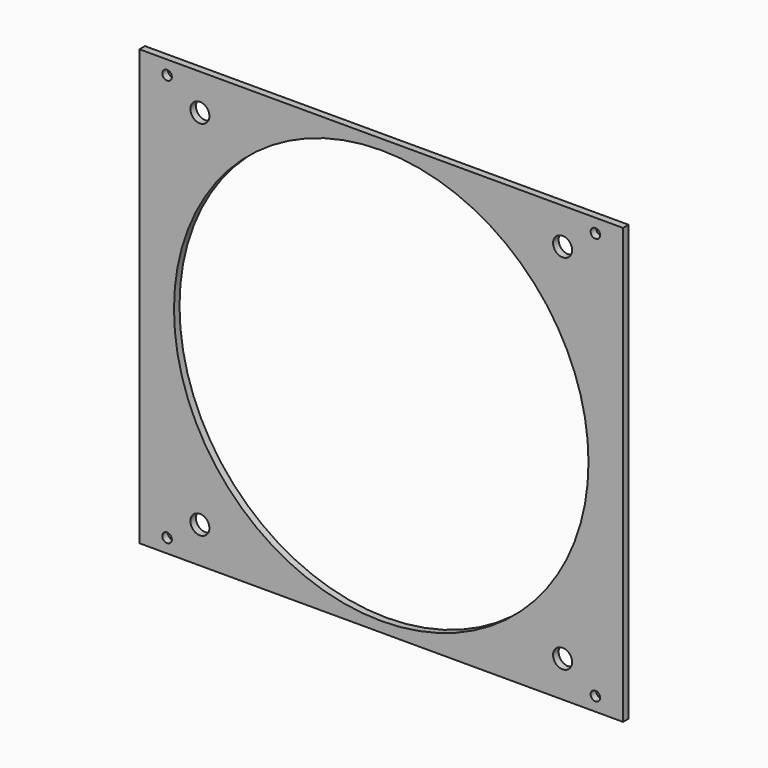
from build123d import *

# Parameters (mm, degrees)
F0_W     = 140
F0_H     = 125.904
F0_R     = 2.75
F0_R_2   = 60
F1_DEPTH = 1
F3_D     = 2.75


with BuildPart() as f1:
    # F0 (on Front) → F1 (new body, symmetric)
    with BuildSketch(Plane.XZ):
        Rectangle(F0_W, F0_H)
        with Locations((-52.5, -52.5)):
            Circle(F0_R, mode=Mode.SUBTRACT)
        with Locations((52.5, -52.5)):
            Circle(F0_R, mode=Mode.SUBTRACT)
        Circle(F0_R_2, mode=Mode.SUBTRACT)
        with Locations((-52.5, 52.5)):
            Circle(F0_R, mode=Mode.SUBTRACT)
        with Locations((52.5, 52.5)):
            Circle(F0_R, mode=Mode.SUBTRACT)
    extrude(amount=F1_DEPTH, both=True)

    # F3 (through all)
    with Locations(Plane.XZ.offset(1)):
        with Locations((-62, 58.952), (62, 58.952), (62, -58.952), (-62, -58.952)):
            Hole(F3_D / 2)


solid = f1.part
